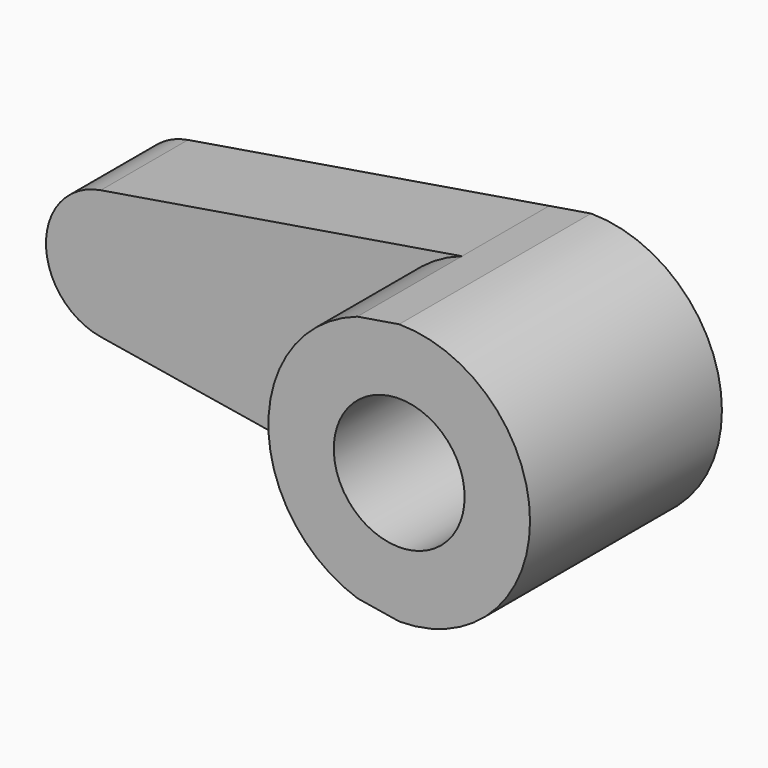
from build123d import *

# Parameters (mm, degrees)
F1_DEPTH = 25
F0_R     = 15
F2_DEPTH = 55


with BuildPart() as f1:
    # F0 (on Front) → F1 (new body)
    with BuildSketch(Plane.XZ):
        with BuildLine():
            ThreePointArc((-75, 0), (-80.2919164477, 11.4347327796), (-92.4337484988, 14.8012454964))
            ThreePointArc((-92.4337484988, 14.8012454964), (-105, 0), (-92.4337484988, -14.8012454964))
            ThreePointArc((-92.4337484988, -14.8012454964), (-80.2919164477, -11.4347327796), (-75, 0))
        make_face()
        with BuildLine():
            ThreePointArc((-9.6060024019, -28.4204981986), (-30, 0), (-9.6060024019, 28.4204981986))
            Line((-9.6060024019, 28.4204981986), (-92.4337484988, 14.8012454964))
            ThreePointArc((-92.4337484988, 14.8012454964), (-80.2919164477, 11.4347327796), (-75, 0))
            ThreePointArc((-75, 0), (-80.2919164477, -11.4347327796), (-92.4337484988, -14.8012454964))
            Line((-92.4337484988, -14.8012454964), (-9.6060024019, -28.4204981986))
        make_face()
    extrude(amount=F1_DEPTH)

    # F0 (on Front) → F2 (join)
    with BuildSketch(Plane.XZ):
        with BuildLine():
            ThreePointArc((0, -30), (21.2132034356, -21.2132034356), (30, 0))
            ThreePointArc((30, 0), (21.2132034356, 21.2132034356), (0, 30))
            Line((0, 30), (-9.6060024019, 28.4204981986))
            ThreePointArc((-9.6060024019, 28.4204981986), (-30, 0), (-9.6060024019, -28.4204981986))
            Line((-9.6060024019, -28.4204981986), (0, -30))
        make_face()
        Circle(F0_R, mode=Mode.SUBTRACT)
    extrude(amount=F2_DEPTH)


solid = f1.part
